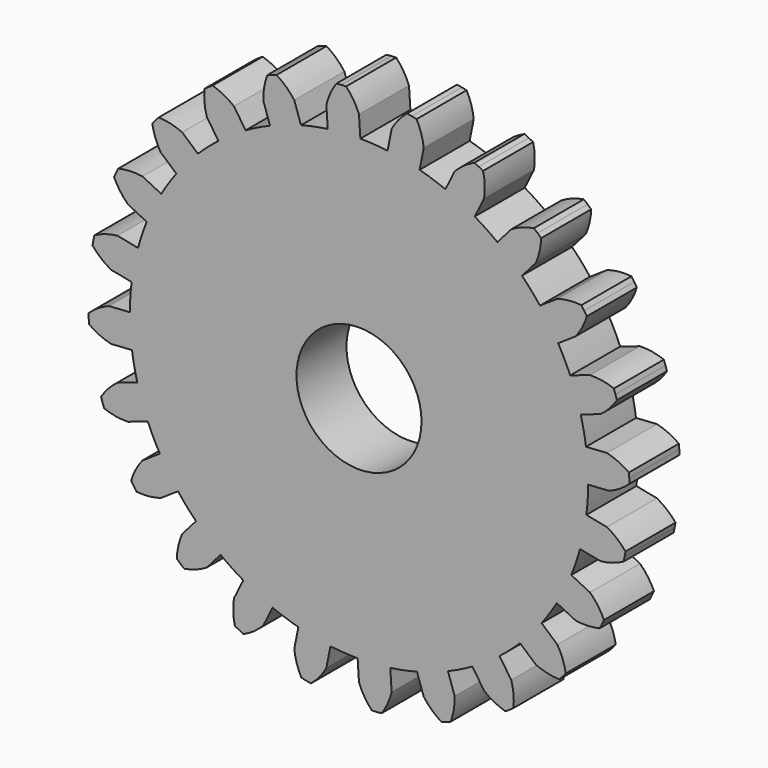
from build123d import *

# Parameters (mm, degrees)
F0_R     = 6.35
F1_DEPTH = 6.35


with BuildPart() as f1:
    # F0 (on Front) → F1 (new body)
    with BuildSketch(Plane.XZ):
        with BuildLine():
            Line((-19.848837, 14.447458), (-18.250526, 13.045777))
            ThreePointArc((-18.250526, 13.045777), (-19.053527, 11.918093), (-19.788076, 10.744671))
            Line((-19.788076, 10.744671), (-21.694708, 11.684918))
            ThreePointArc((-21.694708, 11.684918), (-22.925411, 11.757887), (-24.147018, 11.591666))
            Line((-24.147018, 11.591666), (-24.37298, 11.153438))
            Line((-24.37298, 11.153438), (-24.583093, 10.707394))
            ThreePointArc((-24.583093, 10.707394), (-23.971297, 9.637039), (-23.164203, 8.705077))
            Line((-23.164203, 8.705077), (-21.257571, 7.76483))
            ThreePointArc((-21.257571, 7.76483), (-21.741344, 6.467739), (-22.14716, 5.144186))
            Line((-22.14716, 5.144186), (-24.232178, 5.558922))
            ThreePointArc((-24.232178, 5.558922), (-25.439832, 5.310875), (-26.576793, 4.834143))
            Line((-26.576793, 4.834143), (-26.681634, 4.352364))
            Line((-26.681634, 4.352364), (-26.769142, 3.867137))
            ThreePointArc((-26.769142, 3.867137), (-25.901165, 2.991597), (-24.880362, 2.300283))
            Line((-24.880362, 2.300283), (-22.795343, 1.885547))
            ThreePointArc((-22.795343, 1.885547), (-22.92692, 0.507444), (-22.976347, -0.876044))
            Line((-22.976347, -0.876044), (-25.097662, -1.015082))
            ThreePointArc((-25.097662, -1.015082), (-26.199967, -1.567241), (-27.174799, -2.321996))
            Line((-27.174799, -2.321996), (-27.151374, -2.814493))
            Line((-27.151374, -2.814493), (-27.110315, -3.305835))
            ThreePointArc((-27.110315, -3.305835), (-26.045307, -3.926892), (-24.880362, -4.330447))
            Line((-24.880362, -4.330447), (-22.759047, -4.191409))
            ThreePointArc((-22.759047, -4.191409), (-22.529461, -5.556609), (-22.219131, -6.905748))
            Line((-22.219131, -6.905748), (-24.232178, -7.589086))
            ThreePointArc((-24.232178, -7.589086), (-25.154014, -8.407727), (-25.900284, -9.38907))
            Line((-25.900284, -9.38907), (-25.75019, -9.858723))
            Line((-25.75019, -9.858723), (-25.583361, -10.322696))
            ThreePointArc((-25.583361, -10.322696), (-24.393901, -10.646947), (-23.164203, -10.735241))
            Line((-23.164203, -10.735241), (-21.151155, -10.051904))
            ThreePointArc((-21.151155, -10.051904), (-20.576053, -11.311165), (-19.927114, -12.534014))
            Line((-19.927114, -12.534014), (-21.694708, -13.715082))
            ThreePointArc((-21.694708, -13.715082), (-22.373252, -14.744417), (-22.840104, -15.885471))
            Line((-22.840104, -15.885471), (-22.573569, -16.300274))
            Line((-22.573569, -16.300274), (-22.292339, -16.705259))
            ThreePointArc((-22.292339, -16.705259), (-21.059487, -16.710606), (-19.848837, -16.477622))
            Line((-19.848837, -16.477622), (-18.081244, -15.296554))
            ThreePointArc((-18.081244, -15.296554), (-17.199817, -16.364059), (-16.256493, -17.377283))
            Line((-16.256493, -17.377283), (-17.658175, -18.975594))
            ThreePointArc((-17.658175, -18.975594), (-18.047187, -20.145476), (-18.202805, -21.368479))
            Line((-18.202805, -21.368479), (-17.837992, -21.700164))
            Line((-17.837992, -21.700164), (-17.461528, -22.018562))
            ThreePointArc((-17.461528, -22.018562), (-16.2693, -21.704641), (-15.160203, -21.166257))
            Line((-15.160203, -21.166257), (-13.758521, -19.567946))
            ThreePointArc((-13.758521, -19.567946), (-12.630837, -20.370946), (-11.457416, -21.105495))
            Line((-11.457416, -21.105495), (-12.397662, -23.012127))
            ThreePointArc((-12.397662, -23.012127), (-12.470631, -24.24283), (-12.30441, -25.464437))
            Line((-12.30441, -25.464437), (-11.866182, -25.6904))
            Line((-11.866182, -25.6904), (-11.420138, -25.900512))
            ThreePointArc((-11.420138, -25.900512), (-10.349783, -25.288717), (-9.417822, -24.481622))
            Line((-9.417822, -24.481622), (-8.477575, -22.57499))
            ThreePointArc((-8.477575, -22.57499), (-7.180484, -23.058763), (-5.85693, -23.464579))
            Line((-5.85693, -23.464579), (-6.271666, -25.549598))
            ThreePointArc((-6.271666, -25.549598), (-6.023619, -26.757251), (-5.546887, -27.894212))
            Line((-5.546887, -27.894212), (-5.065108, -27.999053))
            Line((-5.065108, -27.999053), (-4.579881, -28.086562))
            ThreePointArc((-4.579881, -28.086562), (-3.704342, -27.218584), (-3.013028, -26.197782))
            Line((-3.013028, -26.197782), (-2.598292, -24.112763))
            ThreePointArc((-2.598292, -24.112763), (-1.220188, -24.24434), (0.163299, -24.293767))
            Line((0.163299, -24.293767), (0.302338, -26.415082))
            ThreePointArc((0.302338, -26.415082), (0.854496, -27.517386), (1.609251, -28.492219))
            Line((1.609251, -28.492219), (2.101749, -28.468794))
            Line((2.101749, -28.468794), (2.593091, -28.427735))
            ThreePointArc((2.593091, -28.427735), (3.214148, -27.362727), (3.617703, -26.197782))
            Line((3.617703, -26.197782), (3.478664, -24.076466))
            ThreePointArc((3.478664, -24.076466), (4.843865, -23.846881), (6.193004, -23.536551))
            Line((6.193004, -23.536551), (6.876341, -25.549598))
            ThreePointArc((6.876341, -25.549598), (7.694983, -26.471433), (8.676326, -27.217704))
            Line((8.676326, -27.217704), (9.145979, -27.067609))
            Line((9.145979, -27.067609), (9.609952, -26.900781))
            ThreePointArc((9.609952, -26.900781), (9.934202, -25.71132), (10.022497, -24.481622))
            Line((10.022497, -24.481622), (9.339159, -22.468575))
            ThreePointArc((9.339159, -22.468575), (10.59842, -21.893472), (11.821269, -21.244534))
            Line((11.821269, -21.244534), (13.002338, -23.012127))
            ThreePointArc((13.002338, -23.012127), (14.031673, -23.690672), (15.172726, -24.157524))
            Line((15.172726, -24.157524), (15.587529, -23.890988))
            Line((15.587529, -23.890988), (15.992514, -23.609759))
            ThreePointArc((15.992514, -23.609759), (15.997861, -22.376906), (15.764878, -21.166257))
            Line((15.764878, -21.166257), (14.583809, -19.398663))
            ThreePointArc((14.583809, -19.398663), (15.651315, -18.517236), (16.664538, -17.573913))
            Line((16.664538, -17.573913), (18.26285, -18.975594))
            ThreePointArc((18.26285, -18.975594), (19.432732, -19.364606), (20.655735, -19.520224))
            Line((20.655735, -19.520224), (20.987419, -19.155412))
            Line((20.987419, -19.155412), (21.305817, -18.778947))
            ThreePointArc((21.305817, -18.778947), (20.991896, -17.586719), (20.453512, -16.477622))
            Line((20.453512, -16.477622), (18.855201, -15.075941))
            ThreePointArc((18.855201, -15.075941), (19.658202, -13.948257), (20.392751, -12.774835))
            Line((20.392751, -12.774835), (22.299383, -13.715082))
            ThreePointArc((22.299383, -13.715082), (23.530086, -13.788051), (24.751693, -13.62183))
            Line((24.751693, -13.62183), (24.977655, -13.183602))
            Line((24.977655, -13.183602), (25.187768, -12.737558))
            ThreePointArc((25.187768, -12.737558), (24.575972, -11.667203), (23.768878, -10.735241))
            Line((23.768878, -10.735241), (21.862246, -9.794994))
            ThreePointArc((21.862246, -9.794994), (22.346019, -8.497904), (22.751835, -7.17435))
            Line((22.751835, -7.17435), (24.836854, -7.589086))
            ThreePointArc((24.836854, -7.589086), (26.044507, -7.341039), (27.181468, -6.864307))
            Line((27.181468, -6.864307), (27.286309, -6.382528))
            Line((27.286309, -6.382528), (27.373817, -5.897301))
            ThreePointArc((27.373817, -5.897301), (26.50584, -5.021762), (25.485037, -4.330447))
            Line((25.485037, -4.330447), (23.400018, -3.915711))
            ThreePointArc((23.400018, -3.915711), (23.531595, -2.537608), (23.581022, -1.15412))
            Line((23.581022, -1.15412), (25.702338, -1.015082))
            ThreePointArc((25.702338, -1.015082), (26.804642, -0.462924), (27.779474, 0.291832))
            Line((27.779474, 0.291832), (27.756049, 0.784329))
            Line((27.756049, 0.784329), (27.71499, 1.275671))
            ThreePointArc((27.71499, 1.275671), (26.649982, 1.896728), (25.485037, 2.300283))
            Line((25.485037, 2.300283), (23.363722, 2.161245))
            ThreePointArc((23.363722, 2.161245), (23.134136, 3.526445), (22.823806, 4.875584))
            Line((22.823806, 4.875584), (24.836854, 5.558922))
            ThreePointArc((24.836854, 5.558922), (25.758689, 6.377563), (26.504959, 7.358906))
            Line((26.504959, 7.358906), (26.354865, 7.828559))
            Line((26.354865, 7.828559), (26.188036, 8.292532))
            ThreePointArc((26.188036, 8.292532), (24.998576, 8.616783), (23.768878, 8.705077))
            Line((23.768878, 8.705077), (21.75583, 8.02174))
            ThreePointArc((21.75583, 8.02174), (21.180728, 9.281001), (20.531789, 10.50385))
            Line((20.531789, 10.50385), (22.299383, 11.684918))
            ThreePointArc((22.299383, 11.684918), (22.977927, 12.714253), (23.444779, 13.855307))
            Line((23.444779, 13.855307), (23.178244, 14.27011))
            Line((23.178244, 14.27011), (22.897014, 14.675095))
            ThreePointArc((22.897014, 14.675095), (21.664162, 14.680442), (20.453512, 14.447458))
            Line((20.453512, 14.447458), (18.685919, 13.26639))
            ThreePointArc((18.685919, 13.26639), (17.804492, 14.333895), (16.861168, 15.347119))
            Line((16.861168, 15.347119), (18.26285, 16.94543))
            ThreePointArc((18.26285, 16.94543), (18.651862, 18.115312), (18.80748, 19.338315))
            Line((18.80748, 19.338315), (18.442667, 19.67))
            Line((18.442667, 19.67), (18.066203, 19.988398))
            ThreePointArc((18.066203, 19.988398), (16.873975, 19.674477), (15.764878, 19.136093))
            Line((15.764878, 19.136093), (14.363196, 17.537781))
            ThreePointArc((14.363196, 17.537781), (13.235513, 18.340782), (12.062091, 19.075331))
            Line((12.062091, 19.075331), (13.002338, 20.981963))
            ThreePointArc((13.002338, 20.981963), (13.075306, 22.212666), (12.909085, 23.434273))
            Line((12.909085, 23.434273), (12.470857, 23.660235))
            Line((12.470857, 23.660235), (12.024813, 23.870348))
            ThreePointArc((12.024813, 23.870348), (10.954458, 23.258553), (10.022497, 22.451458))
            Line((10.022497, 22.451458), (9.08225, 20.544826))
            ThreePointArc((9.08225, 20.544826), (7.785159, 21.028599), (6.461605, 21.434415))
            Line((6.461605, 21.434415), (6.876341, 23.519434))
            ThreePointArc((6.876341, 23.519434), (6.628295, 24.727087), (6.151562, 25.864048))
            Line((6.151562, 25.864048), (5.669783, 25.968889))
            Line((5.669783, 25.968889), (5.184556, 26.056398))
            ThreePointArc((5.184556, 26.056398), (4.309017, 25.18842), (3.617703, 24.167617))
            Line((3.617703, 24.167617), (3.202967, 22.082598))
            ThreePointArc((3.202967, 22.082598), (1.824864, 22.214176), (0.441376, 22.263603))
            Line((0.441376, 22.263603), (0.302338, 24.384918))
            ThreePointArc((0.302338, 24.384918), (-0.249821, 25.487222), (-1.004576, 26.462055))
            Line((-1.004576, 26.462055), (-1.497074, 26.43863))
            Line((-1.497074, 26.43863), (-1.988416, 26.39757))
            ThreePointArc((-1.988416, 26.39757), (-2.609473, 25.332563), (-3.013028, 24.167617))
            Line((-3.013028, 24.167617), (-2.873989, 22.046302))
            ThreePointArc((-2.873989, 22.046302), (-4.23919, 21.816717), (-5.588329, 21.506387))
            Line((-5.588329, 21.506387), (-6.271666, 23.519434))
            ThreePointArc((-6.271666, 23.519434), (-7.090308, 24.441269), (-8.07165, 25.18754))
            Line((-8.07165, 25.18754), (-8.541304, 25.037445))
            Line((-8.541304, 25.037445), (-9.005277, 24.870616))
            ThreePointArc((-9.005277, 24.870616), (-9.329527, 23.681156), (-9.417822, 22.451458))
            Line((-9.417822, 22.451458), (-8.734484, 20.438411))
            ThreePointArc((-8.734484, 20.438411), (-9.993745, 19.863308), (-11.216594, 19.21437))
            Line((-11.216594, 19.21437), (-12.397662, 20.981963))
            ThreePointArc((-12.397662, 20.981963), (-13.426998, 21.660508), (-14.568051, 22.12736))
            Line((-14.568051, 22.12736), (-14.982854, 21.860824))
            Line((-14.982854, 21.860824), (-15.387839, 21.579595))
            ThreePointArc((-15.387839, 21.579595), (-15.393186, 20.346742), (-15.160203, 19.136093))
            Line((-15.160203, 19.136093), (-13.979134, 17.368499))
            ThreePointArc((-13.979134, 17.368499), (-15.04664, 16.487072), (-16.059863, 15.543749))
            Line((-16.059863, 15.543749), (-17.658175, 16.94543))
            ThreePointArc((-17.658175, 16.94543), (-18.828057, 17.334442), (-20.05106, 17.49006))
            Line((-20.05106, 17.49006), (-20.382744, 17.125248))
            Line((-20.382744, 17.125248), (-20.701142, 16.748783))
            ThreePointArc((-20.701142, 16.748783), (-20.387221, 15.556555), (-19.848837, 14.447458))
        make_face()
        with Locations((0.302338, -1.015082)):
            Circle(F0_R, mode=Mode.SUBTRACT)
    extrude(amount=F1_DEPTH)


solid = f1.part
